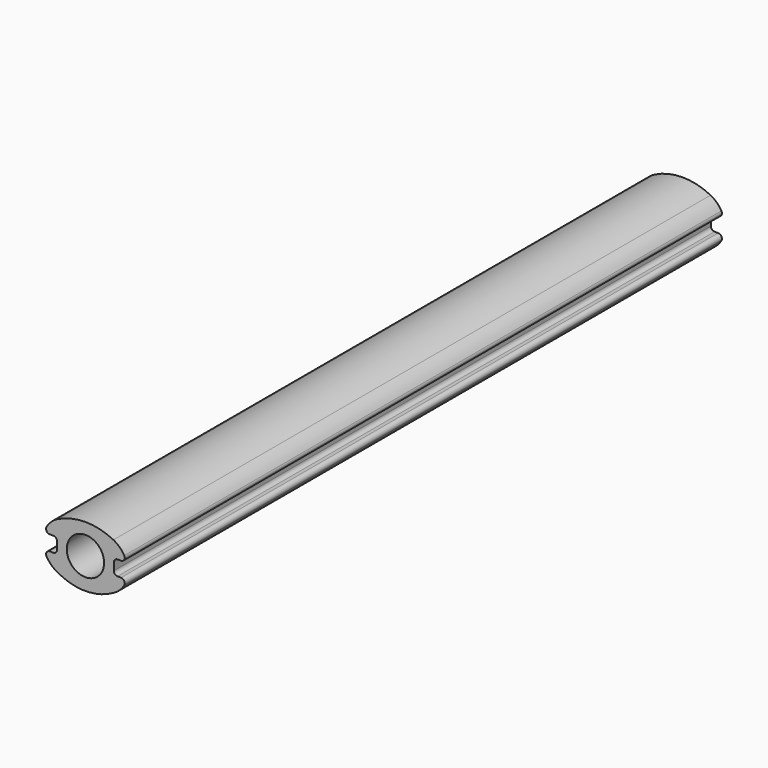
from build123d import *

# Parameters (mm, degrees)
F0_W     = 30
F0_H     = 25
F1_DEPTH = 400
F2_R     = 2
F3_R     = 10
F4_DEPTH = 400


with BuildPart() as f1:
    # F0 (on Front) → F1 (new body)
    with BuildSketch(Plane.XZ):
        Rectangle(F0_W, F0_H)
        with BuildLine():
            Line((-15, -12.5), (-15, 12.5))
            ThreePointArc((-15, 12.5), (-19.432726, 8.983673), (-22.111648, 4))
            Line((-22.111648, 4), (-15.19524, 4))
            Line((-15.19524, 4), (-15.19524, -4))
            Line((-15.19524, -4), (-22.111648, -4))
            ThreePointArc((-22.111648, -4), (-19.432726, -8.983673), (-15, -12.5))
        make_face()
        with BuildLine():
            ThreePointArc((-15, -12.5), (0, -16.519238), (15, -12.5))
            Line((15, -12.5), (-15, -12.5))
        make_face()
        with BuildLine():
            ThreePointArc((22.111648, 4), (19.432726, 8.983673), (15, 12.5))
            Line((15, 12.5), (15, -12.5))
            ThreePointArc((15, -12.5), (19.432726, -8.983673), (22.111648, -4))
            Line((22.111648, -4), (15.19524, -4))
            Line((15.19524, -4), (15.19524, 4))
            Line((15.19524, 4), (22.111648, 4))
        make_face()
        with BuildLine():
            Line((-15, 12.5), (15, 12.5))
            ThreePointArc((15, 12.5), (0, 16.082066), (-15, 12.5))
        make_face()
    extrude(amount=F1_DEPTH)

    # F2
    f2_edges = [f1.edges().sort_by_distance(p)[0] for p in [
        (-22.111648, -200, 4),
        (-15.19524, -200, 4),
        (-15.19524, -200, -4),
        (-22.111648, -200, -4),
        (15.19524, -200, -4),
        (22.111648, -200, 4),
        (15.19524, -200, 4),
        (22.111648, -200, -4),
    ]]
    fillet(f2_edges, radius=F2_R)

    # F3 (on face) → F4 (cut)
    with BuildSketch(Plane.XZ.offset(400)):
        Circle(F3_R)
    extrude(amount=-F4_DEPTH, mode=Mode.SUBTRACT)


solid = f1.part
